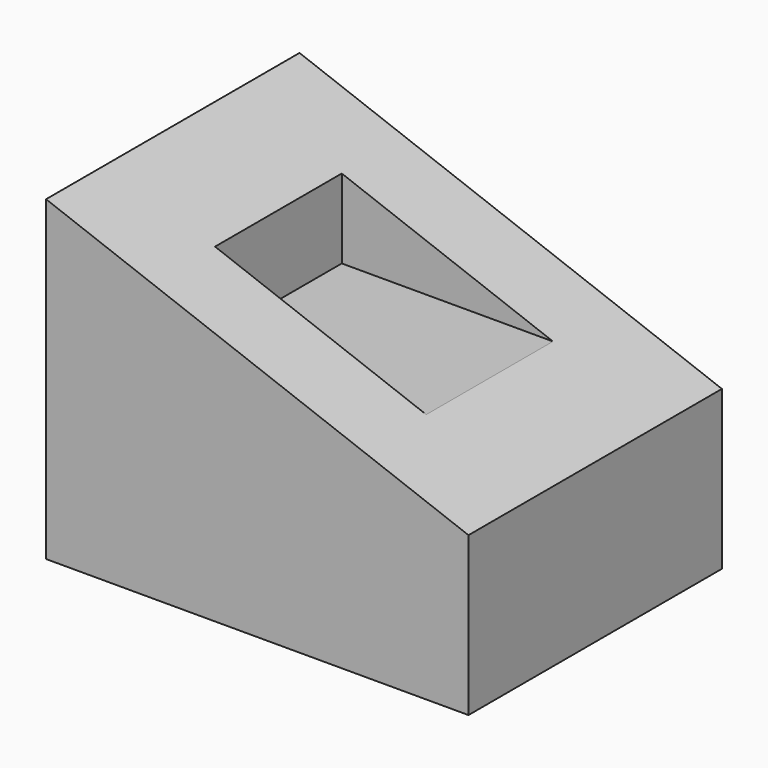
from build123d import *

# Parameters (mm, degrees)
F1_DEPTH = 15
F2_DEPTH = 7.5


with BuildPart() as f1:
    # F0 (on Front) → F1 (new body, symmetric)
    with BuildSketch(Plane.XZ):
        Polygon((0, 30), (0, 0), (40, 0), (40, 15), (30, 18.75), (10, 18.75), (10, 26.25), align=None)
        Polygon((30, 18.75), (10, 26.25), (10, 18.75), align=None)
    extrude(amount=F1_DEPTH, both=True)

    # F0 (on Front) → F2 (cut, symmetric)
    with BuildSketch(Plane.XZ):
        Polygon((30, 18.75), (10, 26.25), (10, 18.75), align=None)
    extrude(amount=F2_DEPTH, both=True, mode=Mode.SUBTRACT)


solid = f1.part
